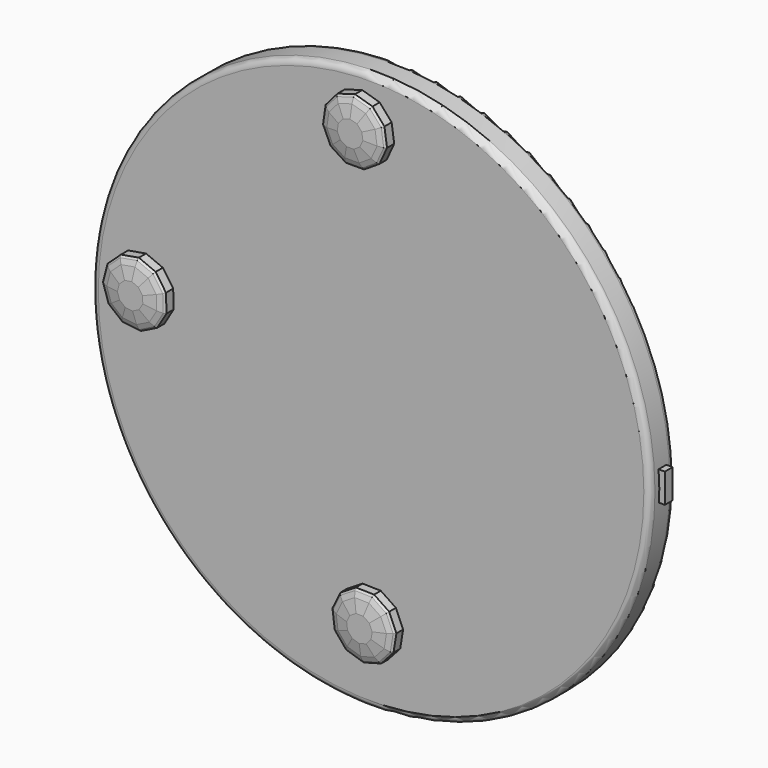
from build123d import *

# Parameters (mm, degrees)
F0_R      = 228.6
F1_DEPTH  = 25.4
F2_R      = 5.08
F3_R      = 63.5
F4_DEPTH  = 25.4
F5_W      = 8.002596
F5_H      = 24.007802
F6_DEPTH  = 233.172
F7_R      = 38.1
F8_DEPTH  = 7.874
F9_SIZE   = 12.7
F11_DEPTH = 12.446
F12_SIZE  = 5.08
F13_SIZE  = 5.08
F14_SIZE  = 5.08
F16_DEPTH = 12.446
F17_SIZE  = 5.08
F18_SIZE  = 5.08
F19_SIZE  = 5.08
F20_R     = 7.62
F22_DEPTH = 11.938
F23_SIZE  = 5.08
F24_SIZE  = 5.08
F25_SIZE  = 5.08


with BuildPart() as f1:
    # F0 (on Front) → F1 (new body)
    with BuildSketch(Plane.XZ):
        Circle(F0_R)
    extrude(amount=F1_DEPTH)

    # F2
    f2_edges = [f1.edges().sort_by_distance(p)[0] for p in [
        (-228.6, 0, 0),
        (-228.6, -25.4, 0),
    ]]
    fillet(f2_edges, radius=F2_R)


with BuildPart() as f4:
    # F3 (on face) → F4 (new body)
    with BuildSketch(Plane(origin=(0, 0, 0), x_dir=(-1, 0, 0), z_dir=(0, 1, 0))):
        with Locations((82.239256, -80.226615)):
            Circle(F3_R)
        with Locations((-82.296442, -80.226615)):
            Circle(F3_R)
        with Locations((0, 79.717383)):
            Circle(F3_R)
    extrude(amount=F4_DEPTH)

    # F9
    f9_edges = [f4.edges().sort_by_distance(p)[0] for p in [
        (63.5, 25.4, 79.717383),
        (145.796442, 25.4, -80.226615),
        (-18.739256, 25.4, -80.226615),
    ]]
    chamfer(f9_edges, length=F9_SIZE)


with BuildPart() as f6:
    # F5 (on Right) → F6 (new body)
    with BuildSketch(Plane.YZ):
        with Locations((-11.918711, 1.977991)):
            Rectangle(F5_W, F5_H)
    extrude(amount=F6_DEPTH)


with BuildPart() as f8:
    # F7 (on face) → F8 (new body)
    with BuildSketch(Plane(origin=(0, 0, 0), x_dir=(-1, 0, 0), z_dir=(0, 1, 0))):
        with Locations((121.520357, 26.241926)):
            Circle(F7_R)
        with Locations((-117.51097, 26.241926)):
            Circle(F7_R)
    extrude(amount=F8_DEPTH)

    # F20
    f20_edges = [f8.edges().sort_by_distance(p)[0] for p in [
        (-83.420357, 7.874, 26.241926),
        (155.61097, 7.874, 26.241926),
    ]]
    fillet(f20_edges, radius=F20_R)


with BuildPart() as f11:
    # F10 (on face) → F11 (new body)
    with BuildSketch(Plane.XZ.offset(25.4)):
        Polygon((-169.377034, -6.394274), (-161.69935, 6.394274), (-162.154481, 21.303555), (-170.597928, 33.599977), (-184.348956, 39.379513), (-199.041709, 36.807202), (-210.011344, 26.699734), (-213.775078, 12.266158), (-209.137952, -1.910966), (-197.572222, -11.330503), (-182.749924, -13.001815), align=None)
    extrude(amount=F11_DEPTH)

    # F12
    f12_edges = [f11.edges().sort_by_distance(p)[0] for p in [
        (-176.063479, -37.846, -9.698045),
        (-165.538192, -37.846, 0),
        (-161.926916, -37.846, 13.848914),
        (-166.376205, -37.846, 27.451766),
        (-177.473442, -37.846, 36.489745),
        (-191.695333, -37.846, 38.093358),
        (-204.526527, -37.846, 31.753468),
        (-211.893211, -37.846, 19.482946),
        (-211.456515, -37.846, 5.177596),
        (-203.355087, -37.846, -6.620735),
        (-190.161073, -37.846, -12.166159),
    ]]
    chamfer(f12_edges, length=F12_SIZE)

    # F13
    f13_edges = [f11.edges().sort_by_distance(p)[0] for p in [
        (-178.313801, -37.846, -5.143657),
        (-189.591876, -37.846, -7.118148),
        (-169.893571, -37.846, 2.614779),
        (-200.147087, -37.846, -2.681808),
        (-167.00455, -37.846, 13.693911),
        (-206.62823, -37.846, 6.756856),
        (-170.563982, -37.846, 24.576192),
        (-206.977586, -37.846, 18.201136),
        (-179.441771, -37.846, 31.806575),
        (-201.084239, -37.846, 28.017553),
        (-190.819284, -37.846, 33.089465),
    ]]
    chamfer(f13_edges, length=F13_SIZE)

    # F14
    f14_edges = [f11.edges().sort_by_distance(p)[0] for p in [
        (-180.564123, -37.846, -0.589268),
        (-189.022679, -37.846, -2.070137),
        (-174.248951, -37.846, 5.229558),
        (-196.939088, -37.846, 1.257118),
        (-172.082185, -37.846, 13.538907),
        (-201.799945, -37.846, 8.336116),
        (-174.751759, -37.846, 21.700618),
        (-202.061962, -37.846, 16.919326),
        (-181.410101, -37.846, 27.123405),
        (-197.641952, -37.846, 24.281639),
        (-189.943235, -37.846, 28.085573),
    ]]
    chamfer(f14_edges, length=F14_SIZE)


with BuildPart() as f16:
    # F15 (on face) → F16 (new body)
    with BuildSketch(Plane.XZ.offset(25.4)):
        Polygon((-14.696602, 163.006811), (0.219624, 163.006811), (12.767952, 171.071131), (18.964376, 184.639408), (16.841576, 199.403808), (7.073525, 210.676739), (-7.238489, 214.879126), (-21.550503, 210.676739), (-31.318553, 199.403808), (-33.441353, 184.639408), (-27.244929, 171.071131), align=None)
    extrude(amount=F16_DEPTH)

    # F17
    f17_edges = [f16.edges().sort_by_distance(p)[0] for p in [
        (-7.238489, -37.846, 163.006811),
        (6.493788, -37.846, 167.038971),
        (15.866164, -37.846, 177.85527),
        (17.902976, -37.846, 192.021608),
        (11.957551, -37.846, 205.040274),
        (-0.082482, -37.846, 212.777932),
        (-14.394496, -37.846, 212.777932),
        (-26.434528, -37.846, 205.040274),
        (-32.379953, -37.846, 192.021608),
        (-30.343141, -37.846, 177.85527),
        (-20.970765, -37.846, 167.038971),
    ]]
    chamfer(f17_edges, length=F17_SIZE)

    # F18
    f18_edges = [f16.edges().sort_by_distance(p)[0] for p in [
        (-7.238489, -37.846, 168.086811),
        (-18.22431, -37.846, 171.312539),
        (3.747333, -37.846, 171.312539),
        (-25.722211, -37.846, 179.965578),
        (11.245234, -37.846, 179.965578),
        (-27.35166, -37.846, 191.298648),
        (12.874683, -37.846, 191.298648),
        (-22.59532, -37.846, 201.713581),
        (8.118343, -37.846, 201.713581),
        (-12.963294, -37.846, 207.903708),
        (-1.513683, -37.846, 207.903708),
    ]]
    chamfer(f18_edges, length=F18_SIZE)

    # F19
    f19_edges = [f16.edges().sort_by_distance(p)[0] for p in [
        (-7.238489, -37.846, 173.166811),
        (-15.477855, -37.846, 175.586107),
        (1.000877, -37.846, 175.586107),
        (-21.10128, -37.846, 182.075886),
        (6.624303, -37.846, 182.075886),
        (-22.323367, -37.846, 190.575689),
        (7.84639, -37.846, 190.575689),
        (-18.756112, -37.846, 198.386889),
        (4.279135, -37.846, 198.386889),
        (-11.532093, -37.846, 203.029484),
        (-2.944884, -37.846, 203.029484),
    ]]
    chamfer(f19_edges, length=F19_SIZE)


with BuildPart() as f22:
    # F21 (on face) → F22 (new body)
    with BuildSketch(Plane.XZ.offset(25.4)):
        Polygon((26.272274, -163.321405), (20.345511, -149.633189), (7.959192, -141.322178), (-6.954114, -141.02706), (-19.659538, -148.841534), (-26.123198, -162.284558), (-24.292927, -177.088067), (-14.749823, -188.552053), (-0.523755, -193.03678), (13.868602, -189.11838), (23.857775, -178.040916), align=None)
    extrude(amount=F22_DEPTH)

    # F23
    f23_edges = [f22.edges().sort_by_distance(p)[0] for p in [
        (18.863189, -37.338, -183.579648),
        (25.065025, -37.338, -170.68116),
        (23.308892, -37.338, -156.477297),
        (14.152352, -37.338, -145.477683),
        (0.502539, -37.338, -141.174619),
        (-13.306826, -37.338, -144.934297),
        (-22.891368, -37.338, -155.563046),
        (-25.208062, -37.338, -169.686313),
        (-19.521375, -37.338, -182.82006),
        (-7.636789, -37.338, -190.794417),
        (6.672423, -37.338, -191.07758),
    ]]
    chamfer(f23_edges, length=F23_SIZE)

    # F24
    f24_edges = [f22.edges().sort_by_distance(p)[0] for p in [
        (15.090551, -37.338, -180.177648),
        (5.337939, -37.338, -186.175993),
        (20.05202, -37.338, -169.858858),
        (-6.109431, -37.338, -185.949463),
        (18.647114, -37.338, -158.495767),
        (-15.6171, -37.338, -179.569978),
        (11.321881, -37.338, -149.696076),
        (-20.16645, -37.338, -169.062979),
        (0.402031, -37.338, -146.253625),
        (-18.313094, -37.338, -157.764366),
        (-10.645461, -37.338, -149.261367),
    ]]
    chamfer(f24_edges, length=F24_SIZE)

    # F25
    f25_edges = [f22.edges().sort_by_distance(p)[0] for p in [
        (11.317913, -37.338, -176.775647),
        (4.003454, -37.338, -181.274407),
        (15.039015, -37.338, -169.036555),
        (-4.582073, -37.338, -181.104509),
        (13.985335, -37.338, -160.514237),
        (-11.712825, -37.338, -176.319895),
        (8.491411, -37.338, -153.914469),
        (-15.124837, -37.338, -168.439646),
        (0.301523, -37.338, -151.33263),
        (-13.734821, -37.338, -159.965686),
        (-7.984096, -37.338, -153.588437),
    ]]
    chamfer(f25_edges, length=F25_SIZE)


solid = Compound([f1.part, f4.part, f6.part, f8.part, f11.part, f16.part, f22.part])
